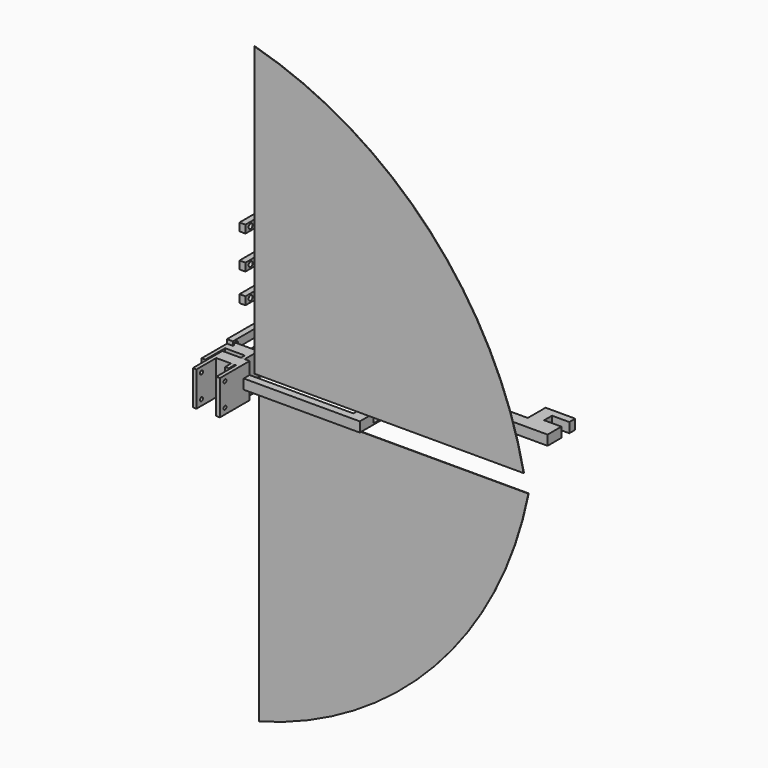
from build123d import *

# Parameters (mm, degrees)
CYLINDER007_R               = 0.75
CYLINDER007_DEPTH           = 19
CYLINDER007_ROLL_ANGLE      = 90
CYLINDER007_PITCH_ANGLE     = -30
CYLINDER007_PLACEMENT_ANGLE = 180
CYLINDER005_R               = 0.75
CYLINDER005_DEPTH           = 10
CYLINDER003_R               = 0.75
CYLINDER003_DEPTH           = 10
CYLINDER_R                  = 0.75
CYLINDER_DEPTH              = 40
SKETCH001_W                 = 70
SKETCH001_H                 = 20
PAD001_DEPTH                = 2.5
SKETCH_W                    = 48
SKETCH_H                    = 27
PAD_DEPTH                   = 4
CUT007_PLACEMENT_ANGLE      = 180
CYLINDER008_R               = 0.75
CYLINDER008_DEPTH           = 10
CYLINDER006_R               = 0.75
CYLINDER006_DEPTH           = 10
CONE_ANGLE                  = 180
PAD004_DEPTH                = 0.2
FUSION_PLACEMENT_ANGLE      = 180
CYLINDER012_R               = 0.75
CYLINDER012_DEPTH           = 10
CYLINDER011_R               = 0.75
CYLINDER011_DEPTH           = 10
CONE001_ANGLE               = 180
CUT012_PLACEMENT_ANGLE      = 180
PAD005_DEPTH                = 0.2
BODY005_PLACEMENT_ANGLE     = 180
FUSION001_PLACEMENT_ANGLE   = 180
CYLINDER016_R               = 1
CYLINDER016_DEPTH           = 10
CYLINDER015_R               = 1
CYLINDER015_DEPTH           = 10
BOX002_W                    = 2.4
BOX002_H                    = 30
BOX002_DEPTH                = 3.2
BOX003_W                    = 8
BOX003_H                    = 10
BOX003_DEPTH                = 20
CYLINDER010_R               = 0.75
CYLINDER010_DEPTH           = 20
CYLINDER009_R               = 0.75
CYLINDER009_DEPTH           = 20
BOX_W                       = 11
BOX_H                       = 15
BOX_DEPTH                   = 14
CUT014_PLACEMENT_ANGLE      = 180
CYLINDER018_R               = 1
CYLINDER018_DEPTH           = 10
CYLINDER017_R               = 1
CYLINDER017_DEPTH           = 10
BOX005_W                    = 2.4
BOX005_H                    = 34
BOX005_DEPTH                = 3.2
CYLINDER020_R               = 1
CYLINDER020_DEPTH           = 10
CYLINDER019_R               = 1
CYLINDER019_DEPTH           = 10
BOX006_W                    = 2.4
BOX006_H                    = 45
BOX006_DEPTH                = 3.2
CYLINDER022_R               = 1
CYLINDER022_DEPTH           = 10
CYLINDER021_R               = 1
CYLINDER021_DEPTH           = 10
BOX007_W                    = 2.4
BOX007_H                    = 50
BOX007_DEPTH                = 3.2
CYLINDER024_R               = 1
CYLINDER024_DEPTH           = 10
CYLINDER023_R               = 1
CYLINDER023_DEPTH           = 10
BOX008_W                    = 2.4
BOX008_H                    = 55
BOX008_DEPTH                = 3.2
CYLINDER028_R               = 0.8
CYLINDER028_DEPTH           = 24
CYLINDER027_R               = 2
CYLINDER027_DEPTH           = 10


with BuildPart() as cylinder007:
    # Cylinder007 → Cylinder007 (new body)
    with BuildSketch(Plane.XY):
        Circle(CYLINDER007_R)
    extrude(amount=CYLINDER007_DEPTH)


with BuildPart() as cylinder007_1:
    # Cylinder007 roll: moved
    add(cylinder007.part.rotate(Axis((0, 0, 0), (1, 0, 0)), CYLINDER007_ROLL_ANGLE))


with BuildPart() as cylinder007_2:
    # Cylinder007 pitch: moved
    add(cylinder007_1.part.rotate(Axis((0, 0, 0), (0, 1, 0)), CYLINDER007_PITCH_ANGLE))


with BuildPart() as cylinder007_3:
    # Cylinder007 placement: moved
    add(cylinder007_2.part.moved(Location((108.8, 5.62, 2))).rotate(Axis((108.8, 5.62, 2), (0, 0, 1)), CYLINDER007_PLACEMENT_ANGLE))


with BuildPart() as cylinder005:
    # Cylinder005 → Cylinder005 (new body)
    with BuildSketch(Plane(origin=(-0.776457, 37, 2.877777), x_dir=(0, 0, -1), z_dir=(1, 0, 0))):
        Circle(CYLINDER005_R)
    extrude(amount=CYLINDER005_DEPTH)


with BuildPart() as cylinder003:
    # Cylinder003 → Cylinder003 (new body)
    with BuildSketch(Plane(origin=(0, 37, 1.03), x_dir=(0, 0, -1), z_dir=(1, 0, 0))):
        Circle(CYLINDER003_R)
    extrude(amount=CYLINDER003_DEPTH)


with BuildPart() as cylinder:
    # Cylinder → Cylinder (new body)
    with BuildSketch(Plane(origin=(21, -7.8, 2), x_dir=(0, 0, 1), z_dir=(-1, 0, 0))):
        Circle(CYLINDER_R)
    extrude(amount=CYLINDER_DEPTH)


with BuildPart() as stem_cutout:
    # Sketch001 → Pad001 (new body)
    with BuildSketch(Plane.XY):
        with Locations((35, 18)):
            Rectangle(SKETCH001_W, SKETCH001_H)
    extrude(amount=PAD001_DEPTH)


with BuildPart() as stem_cutout_1:
    # Body001 placement: moved
    add(stem_cutout.part.moved(Location((0, 0, 1))))


with BuildPart() as stem:
    # Sketch → Pad (new body)
    with BuildSketch(Plane.XY):
        Polygon((0, 0), (0, 5), (2, 5), (2, 32), (2, 35), (60, 35), (60, 32), (60, 5), (112, 5), (112, 0), (112, -2), (105, -2), (105, -6), (112, -6), (112, -9), (100, -9), (100, 0), (9, 0), (9, -11), (0, -11), align=None)
        with Locations((31, 18.5)):
            Rectangle(SKETCH_W, SKETCH_H, mode=Mode.SUBTRACT)
    extrude(amount=PAD_DEPTH)

    # Cut: cut stem_cutout
    add(stem_cutout_1.part, mode=Mode.SUBTRACT)

    # Cut001: cut Cylinder
    add(cylinder.part, mode=Mode.SUBTRACT)

    # Cut004: cut Cylinder003
    add(cylinder003.part, mode=Mode.SUBTRACT)

    # Cut005: cut Cylinder005
    add(cylinder005.part, mode=Mode.SUBTRACT)

    # Cut007: cut Cylinder007
    add(cylinder007_3.part, mode=Mode.SUBTRACT)


with BuildPart() as stem_1:
    # Cut007 placement: moved
    add(stem.part.moved(Location((0, 30.7, 0))).rotate(Axis((0, 30.7, 0), (1, 0, 0)), CUT007_PLACEMENT_ANGLE))


with BuildPart() as cylinder008:
    # Cylinder008 → Cylinder008 (new body)
    with BuildSketch(Plane(origin=(7.95, -1.55, 8.82), x_dir=(0, 0, 1), z_dir=(-1, 0, 0))):
        Circle(CYLINDER008_R)
    extrude(amount=CYLINDER008_DEPTH)


with BuildPart() as cylinder006:
    # Cylinder006 → Cylinder006 (new body)
    with BuildSketch(Plane(origin=(0, -1.4, 29.28), x_dir=(0, 0, -1), z_dir=(1, 0, 0))):
        Circle(CYLINDER006_R)
    extrude(amount=CYLINDER006_DEPTH)


with BuildPart() as wing_bone_port001:
    # Cone → Cone (revolve)
    with BuildSketch(Plane(origin=(4, 0, 120), x_dir=(1, 0, 0), z_dir=(0, 1, 0))):
        Polygon((0, 0), (0.5, 0), (3, 113), (0, 113), align=None)
    revolve(axis=Axis((4, 0, 120), (0, 0, -1)), revolution_arc=CONE_ANGLE)

    # Cut006: cut Cylinder006
    add(cylinder006.part, mode=Mode.SUBTRACT)

    # Cut008: cut Cylinder008
    add(cylinder008.part, mode=Mode.SUBTRACT)


with BuildPart() as wing_port001:
    # Sketch004 → Pad004 (new body)
    with BuildSketch(Plane.XZ):
        with BuildLine():
            ThreePointArc((109, 0), (71.045113, 73.778528), (0, 116.632193))
            Line((0, 116.632193), (0, 0))
            Line((0, 0), (109, 0))
        make_face()
    extrude(amount=PAD004_DEPTH)


with BuildPart() as wing_port001_1:
    # Body004 placement: moved
    add(wing_port001.part.moved(Location((0, 0, 7))))

    # Fusion: union wing-bone-port001
    add(wing_bone_port001.part)


with BuildPart() as wing_port001_2:
    # Fusion placement: moved
    add(wing_port001_1.part.moved(Location((17.18, -1.74, 1.73))).rotate(Axis((17.18, -1.74, 1.73), (1, 0, 0)), FUSION_PLACEMENT_ANGLE))


with BuildPart() as cylinder012:
    # Cylinder012 → Cylinder012 (new body)
    with BuildSketch(Plane(origin=(7.95, -1.55, 8.82), x_dir=(0, 0, 1), z_dir=(-1, 0, 0))):
        Circle(CYLINDER012_R)
    extrude(amount=CYLINDER012_DEPTH)


with BuildPart() as cylinder011:
    # Cylinder011 → Cylinder011 (new body)
    with BuildSketch(Plane(origin=(0, -1.4, 29.28), x_dir=(0, 0, -1), z_dir=(1, 0, 0))):
        Circle(CYLINDER011_R)
    extrude(amount=CYLINDER011_DEPTH)


with BuildPart() as obj1:
    # Cone001 → Cone001 (revolve)
    with BuildSketch(Plane(origin=(4, 0, 120), x_dir=(1, 0, 0), z_dir=(0, 1, 0))):
        Polygon((0, 0), (0.5, 0), (3, 113), (0, 113), align=None)
    revolve(axis=Axis((4, 0, 120), (0, 0, -1)), revolution_arc=CONE001_ANGLE)

    # Cut011: cut Cylinder011
    add(cylinder011.part, mode=Mode.SUBTRACT)

    # Cut012: cut Cylinder012
    add(cylinder012.part, mode=Mode.SUBTRACT)


with BuildPart() as obj1_1:
    # Cut012 placement: moved
    add(obj1.part.moved(Location((7.25, 0.07, 2.42))).rotate(Axis((7.25, 0.07, 2.42), (0, 1, 0)), CUT012_PLACEMENT_ANGLE))


with BuildPart() as obj2:
    # Sketch005 → Pad005 (new body)
    with BuildSketch(Plane.XZ):
        with BuildLine():
            ThreePointArc((109, 0), (71.045113, 73.778528), (0, 116.632193))
            Line((0, 116.632193), (0, 0))
            Line((0, 0), (109, 0))
        make_face()
    extrude(amount=PAD005_DEPTH)


with BuildPart() as obj2_1:
    # Body005 placement: moved
    add(obj2.part.moved(Location((0, 0, -4.58))).rotate(Axis((0, 0, -4.58), (1, 0, 0)), BODY005_PLACEMENT_ANGLE))

    # Fusion001: union obj1
    add(obj1_1.part)


with BuildPart() as obj2_2:
    # Fusion001 placement: moved
    add(obj2_1.part.moved(Location((16.04, -2.52, -2.52))).rotate(Axis((16.04, -2.52, -2.52), (1, 0, 0)), FUSION001_PLACEMENT_ANGLE))


with BuildPart() as cylinder016:
    # Cylinder016 → Cylinder016 (new body)
    with BuildSketch(Plane(origin=(0, 1.6, 1.6), x_dir=(0, 0, -1), z_dir=(1, 0, 0))):
        Circle(CYLINDER016_R)
    extrude(amount=CYLINDER016_DEPTH)


with BuildPart() as cylinder015:
    # Cylinder015 → Cylinder015 (new body)
    with BuildSketch(Plane(origin=(-1, 27.5, 1.6), x_dir=(0, 0, -1), z_dir=(1, 0, 0))):
        Circle(CYLINDER015_R)
    extrude(amount=CYLINDER015_DEPTH)


with BuildPart() as obj3:
    # Box002 → Box002 (new body)
    with BuildSketch(Plane.XY):
        with Locations((1.2, 15)):
            Rectangle(BOX002_W, BOX002_H)
    extrude(amount=BOX002_DEPTH)

    # Cut017: cut Cylinder015
    add(cylinder015.part, mode=Mode.SUBTRACT)

    # Cut018: cut Cylinder016
    add(cylinder016.part, mode=Mode.SUBTRACT)


with BuildPart() as obj3_1:
    # Cut018 placement: moved
    add(obj3.part.moved(Location((0, 0, -11.71))))


with BuildPart() as cube003:
    # Box003 → Box003 (new body)
    with BuildSketch(Plane(origin=(3.5, -9.3, -11.99), x_dir=(1, 0, 0), z_dir=(0, 0, 1))):
        with Locations((4, 5)):
            Rectangle(BOX003_W, BOX003_H)
    extrude(amount=BOX003_DEPTH)


with BuildPart() as cylinder010:
    # Cylinder010 → Cylinder010 (new body)
    with BuildSketch(Plane(origin=(14.25, 32.44, 4.63), x_dir=(0, 0, 1), z_dir=(-1, 0, 0))):
        Circle(CYLINDER010_R)
    extrude(amount=CYLINDER010_DEPTH)


with BuildPart() as cylinder009:
    # Cylinder009 → Cylinder009 (new body)
    with BuildSketch(Plane(origin=(16.82, 32.44, -4.86), x_dir=(0, 0, 1), z_dir=(-1, 0, 0))):
        Circle(CYLINDER009_R)
    extrude(amount=CYLINDER009_DEPTH)


with BuildPart() as wing_hinge:
    # Box → Box (new body)
    with BuildSketch(Plane(origin=(2, 35, 7), x_dir=(1, 0, 0), z_dir=(0, 0, -1))):
        with Locations((5.5, 7.5)):
            Rectangle(BOX_W, BOX_H)
    extrude(amount=BOX_DEPTH)

    # Cut013: cut Cylinder009
    add(cylinder009.part, mode=Mode.SUBTRACT)

    # Cut014: cut Cylinder010
    add(cylinder010.part, mode=Mode.SUBTRACT)


with BuildPart() as wing_hinge_1:
    # Cut014 placement: moved
    add(wing_hinge.part.moved(Location((0, 25.7, -1.99))).rotate(Axis((0, 25.7, -1.99), (1, 0, 0)), CUT014_PLACEMENT_ANGLE))


with BuildPart() as wing_hinge001:
    # Cut019 base: copy of wing-hinge
    add(wing_hinge_1.part)

    # Cut019: cut Cube003
    add(cube003.part, mode=Mode.SUBTRACT)


with BuildPart() as wing_hinge001_1:
    # Cut019 placement: moved
    add(wing_hinge001.part.moved(Location((-2, 0, 0))))


with BuildPart() as wing_hinge002:
    # Cut020 base: copy of wing-hinge
    add(wing_hinge_1.part)

    # Cut020: cut Cube003
    add(cube003.part, mode=Mode.SUBTRACT)


with BuildPart() as wing_hinge002_1:
    # Cut020 placement: moved
    add(wing_hinge002.part.moved(Location((0, -7, 0))))


with BuildPart() as cylinder018:
    # Cylinder018 → Cylinder018 (new body)
    with BuildSketch(Plane(origin=(0, 1.6, 1.6), x_dir=(0, 0, -1), z_dir=(1, 0, 0))):
        Circle(CYLINDER018_R)
    extrude(amount=CYLINDER018_DEPTH)


with BuildPart() as cylinder017:
    # Cylinder017 → Cylinder017 (new body)
    with BuildSketch(Plane(origin=(-1, 31.5, 1.6), x_dir=(0, 0, -1), z_dir=(1, 0, 0))):
        Circle(CYLINDER017_R)
    extrude(amount=CYLINDER017_DEPTH)


with BuildPart() as obj4:
    # Box005 → Box005 (new body)
    with BuildSketch(Plane.XY):
        with Locations((1.2, 17)):
            Rectangle(BOX005_W, BOX005_H)
    extrude(amount=BOX005_DEPTH)

    # Cut022: cut Cylinder017
    add(cylinder017.part, mode=Mode.SUBTRACT)

    # Cut023: cut Cylinder018
    add(cylinder018.part, mode=Mode.SUBTRACT)


with BuildPart() as obj4_1:
    # Cut023 placement: moved
    add(obj4.part.moved(Location((0, 3.51, 3.41))))


with BuildPart() as upperhole:
    # Cylinder020 → Cylinder020 (new body)
    with BuildSketch(Plane(origin=(0, 2.6, 1.6), x_dir=(0, 0, -1), z_dir=(1, 0, 0))):
        Circle(CYLINDER020_R)
    extrude(amount=CYLINDER020_DEPTH)


with BuildPart() as lowerhole:
    # Cylinder019 → Cylinder019 (new body)
    with BuildSketch(Plane(origin=(-1, 42.5, 1.6), x_dir=(0, 0, -1), z_dir=(1, 0, 0))):
        Circle(CYLINDER019_R)
    extrude(amount=CYLINDER019_DEPTH)


with BuildPart() as obj5:
    # Box006 → Box006 (new body)
    with BuildSketch(Plane.XY):
        with Locations((1.2, 22.5)):
            Rectangle(BOX006_W, BOX006_H)
    extrude(amount=BOX006_DEPTH)

    # Cut024: cut lowerhole
    add(lowerhole.part, mode=Mode.SUBTRACT)

    # Cut025: cut upperhole
    add(upperhole.part, mode=Mode.SUBTRACT)


with BuildPart() as obj5_1:
    # Cut025 placement: moved
    add(obj5.part.moved(Location((0, 9.86, 16.86))))


with BuildPart() as upperhole001:
    # Cylinder022 → Cylinder022 (new body)
    with BuildSketch(Plane(origin=(0, 2.6, 1.6), x_dir=(0, 0, -1), z_dir=(1, 0, 0))):
        Circle(CYLINDER022_R)
    extrude(amount=CYLINDER022_DEPTH)


with BuildPart() as lowerhole001:
    # Cylinder021 → Cylinder021 (new body)
    with BuildSketch(Plane(origin=(-1, 47.5, 1.6), x_dir=(0, 0, -1), z_dir=(1, 0, 0))):
        Circle(CYLINDER021_R)
    extrude(amount=CYLINDER021_DEPTH)


with BuildPart() as obj6:
    # Box007 → Box007 (new body)
    with BuildSketch(Plane.XY):
        with Locations((1.2, 25)):
            Rectangle(BOX007_W, BOX007_H)
    extrude(amount=BOX007_DEPTH)

    # Cut026: cut lowerhole001
    add(lowerhole001.part, mode=Mode.SUBTRACT)

    # Cut027: cut upperhole001
    add(upperhole001.part, mode=Mode.SUBTRACT)


with BuildPart() as obj6_1:
    # Cut027 placement: moved
    add(obj6.part.moved(Location((0, 9.86, 28.86))))


with BuildPart() as upperhole002:
    # Cylinder024 → Cylinder024 (new body)
    with BuildSketch(Plane(origin=(0, 2.6, 1.6), x_dir=(0, 0, -1), z_dir=(1, 0, 0))):
        Circle(CYLINDER024_R)
    extrude(amount=CYLINDER024_DEPTH)


with BuildPart() as lowerhole002:
    # Cylinder023 → Cylinder023 (new body)
    with BuildSketch(Plane(origin=(-1, 52.5, 1.6), x_dir=(0, 0, -1), z_dir=(1, 0, 0))):
        Circle(CYLINDER023_R)
    extrude(amount=CYLINDER023_DEPTH)


with BuildPart() as obj7:
    # Box008 → Box008 (new body)
    with BuildSketch(Plane.XY):
        with Locations((1.2, 27.5)):
            Rectangle(BOX008_W, BOX008_H)
    extrude(amount=BOX008_DEPTH)

    # Cut028: cut lowerhole002
    add(lowerhole002.part, mode=Mode.SUBTRACT)

    # Cut029: cut upperhole002
    add(upperhole002.part, mode=Mode.SUBTRACT)


with BuildPart() as obj7_1:
    # Cut029 placement: moved
    add(obj7.part.moved(Location((0, 9.86, 42.41))))


with BuildPart() as obj8:
    # Cylinder028 → Cylinder028 (new body)
    with BuildSketch(Plane(origin=(16.66, 38.5, -2), x_dir=(0, 0, 1), z_dir=(-1, 0, 0))):
        Circle(CYLINDER028_R)
    extrude(amount=CYLINDER028_DEPTH)


with BuildPart() as crank_flange001:
    # Cylinder027 → Cylinder027 (new body)
    with BuildSketch(Plane(origin=(8, 38.5, -2), x_dir=(0, 0, 1), z_dir=(-1, 0, 0))):
        Circle(CYLINDER027_R)
    extrude(amount=CYLINDER027_DEPTH)

    # Cut032: cut obj8
    add(obj8.part, mode=Mode.SUBTRACT)


solid = Compound([stem_1.part, wing_port001_2.part, obj2_2.part, obj3_1.part, wing_hinge001_1.part, wing_hinge002_1.part, obj4_1.part, obj5_1.part, obj6_1.part, obj7_1.part, crank_flange001.part])
